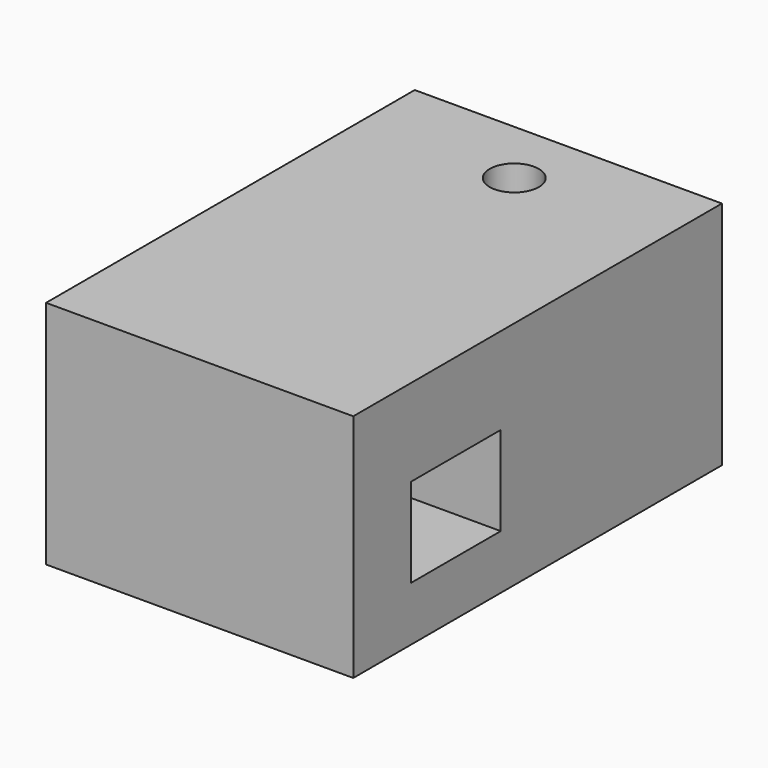
from build123d import *

# Parameters (mm, degrees)
F0_W     = 25.4
F0_H     = 38.1
F1_DEPTH = 19.05
F2_R     = 2.032
F3_DEPTH = 25.4
F4_W     = 9.271
F4_H     = 7.366
F5_DEPTH = 25.4


with BuildPart() as f1:
    # F0 (on Top) → F1 (new body)
    with BuildSketch(Plane.XY):
        with Locations((0, -6.35)):
            Rectangle(F0_W, F0_H)
    extrude(amount=F1_DEPTH)

    # F2 (on face) → F3 (cut)
    with BuildSketch(Plane.XY.offset(19.05)):
        with Locations((0, 7.112)):
            Circle(F2_R)
    extrude(amount=-F3_DEPTH, mode=Mode.SUBTRACT)

    # F4 (on face) → F5 (cut)
    with BuildSketch(Plane.YZ.offset(12.7)):
        with Locations((-14.7955, 8.179266)):
            Rectangle(F4_W, F4_H)
    extrude(amount=-F5_DEPTH, mode=Mode.SUBTRACT)


solid = f1.part
